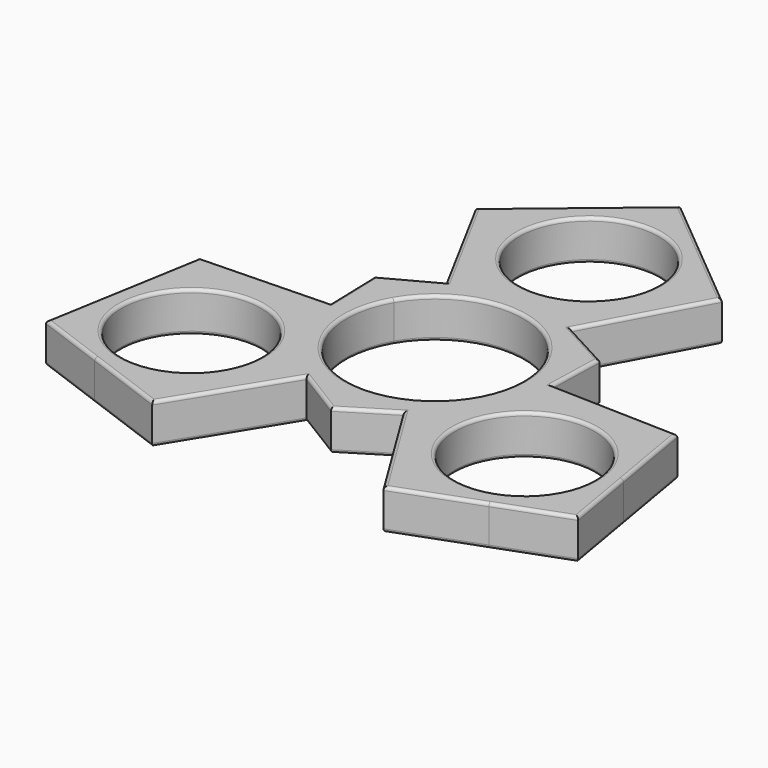
from build123d import *

# Parameters (mm, degrees)
F0_R     = 11.049
F1_DEPTH = 6.35
F2_R     = 0.508


with BuildPart() as f1:
    # F0 (on Top) → F1 (new body)
    with BuildSketch(Plane.XY):
        with BuildLine():
            ThreePointArc((12.0983747456, 6.9850002516), (13.4939837557, 3.6157022004), (13.97, 0))
            ThreePointArc((13.97, 0), (9.8782817384, -9.878281728), (1.47e-08, -13.97))
            ThreePointArc((1.47e-08, -13.97), (3.9531918818, -14.4502659428), (7.6763918152, -15.863122471))
            ThreePointArc((7.6763918152, -15.863122471), (11.438431619, -18.5744390263), (14.2980794165, -22.225))
            ThreePointArc((14.2980794165, -22.225), (14.2980794165, -8.255), (26.3964543073, -1.27))
            ThreePointArc((26.3964543073, -1.27), (21.8051518673, -0.6187528483), (17.5760629508, 1.2836109141))
            ThreePointArc((17.5760629508, 1.2836109141), (14.490893233, 3.8015684858), (12.0983747456, 6.9850002516))
        make_face()
        with BuildLine():
            ThreePointArc((-12.0983749365, 6.984999921), (-1.908e-07, 13.97), (12.0983747456, 6.9850002516))
            ThreePointArc((12.0983747456, 6.9850002516), (10.5377014186, 10.6486976995), (9.8996711356, 14.5795115569))
            ThreePointArc((9.8996711356, 14.5795115569), (10.3667202483, 19.1931918746), (12.0983748909, 23.495))
            ThreePointArc((12.0983748909, 23.495), (0, 16.51), (-12.0983748909, 23.495))
            ThreePointArc((-12.0983748909, 23.495), (-10.3667202483, 19.1931918746), (-9.8996711356, 14.5795115569))
            ThreePointArc((-9.8996711356, 14.5795115569), (-10.5377014717, 10.6486975162), (-12.0983749365, 6.984999921))
        make_face()
        with BuildLine():
            ThreePointArc((9.8996711356, 14.5795115569), (10.5377014186, 10.6486976995), (12.0983747456, 6.9850002516))
            ThreePointArc((12.0983747456, 6.9850002516), (14.490893233, 3.8015684858), (17.5760629508, 1.2836109141))
            Line((17.5760629508, 1.2836109141), (17.835212258, 10.2971645982))
            Line((17.835212258, 10.2971645982), (9.8996711356, 14.5795115569))
        make_face()
        with BuildLine():
            ThreePointArc((-7.6763918152, -15.863122471), (-3.9531918675, -14.4502659392), (1.47e-08, -13.97))
            ThreePointArc((1.47e-08, -13.97), (-12.0983748644, -6.9850000458), (-12.0983749365, 6.984999921))
            ThreePointArc((-12.0983749365, 6.984999921), (-14.4908933653, 3.8015683482), (-17.5760629508, 1.2836109141))
            ThreePointArc((-17.5760629508, 1.2836109141), (-21.8051518673, -0.6187528483), (-26.3964543073, -1.27))
            ThreePointArc((-26.3964543073, -1.27), (-16.5181725742, -5.3617182668), (-12.4264543073, -15.24))
            ThreePointArc((-12.4264543073, -15.24), (-12.9024705141, -18.8557020601), (-14.2980794165, -22.225))
            ThreePointArc((-14.2980794165, -22.225), (-11.438431619, -18.5744390263), (-7.6763918152, -15.863122471))
        make_face()
        with BuildLine():
            ThreePointArc((7.6763918152, -15.863122471), (3.9531918818, -14.4502659428), (1.47e-08, -13.97))
            ThreePointArc((1.47e-08, -13.97), (-3.9531918675, -14.4502659392), (-7.6763918152, -15.863122471))
            Line((-7.6763918152, -15.863122471), (0, -20.5943291964))
            Line((0, -20.5943291964), (7.6763918152, -15.863122471))
        make_face()
        with BuildLine():
            ThreePointArc((-17.5760629508, 1.2836109141), (-14.4908933653, 3.8015683482), (-12.0983749365, 6.984999921))
            ThreePointArc((-12.0983749365, 6.984999921), (-10.5377014717, 10.6486975162), (-9.8996711356, 14.5795115569))
            Line((-9.8996711356, 14.5795115569), (-17.835212258, 10.2971645982))
            Line((-17.835212258, 10.2971645982), (-17.5760629508, 1.2836109141))
        make_face()
        with BuildLine():
            ThreePointArc((12.0983748909, 23.495), (10.3667202483, 19.1931918746), (9.8996711356, 14.5795115569))
            Line((9.8996711356, 14.5795115569), (19.5195828776, 32.405999219))
            Line((19.5195828776, 32.405999219), (8.9389112692, 41.2157703646))
            ThreePointArc((8.9389112692, 41.2157703646), (12.6498515887, 36.4080818807), (13.97, 30.48))
            ThreePointArc((13.97, 30.48), (13.4939837933, 26.8642979399), (12.0983748909, 23.495))
        make_face()
        with BuildLine():
            Line((37.8242099975, 0.7014550338), (17.5760629508, 1.2836109141))
            ThreePointArc((17.5760629508, 1.2836109141), (21.8051518673, -0.6187528483), (26.3964543073, -1.27))
            ThreePointArc((26.3964543073, -1.27), (35.3965642664, -4.555482195), (40.1633598341, -12.8665610989))
            Line((40.1633598341, -12.8665610989), (37.8242099975, 0.7014550338))
        make_face()
        with BuildLine():
            ThreePointArc((14.2980794165, -22.225), (11.438431619, -18.5744390263), (7.6763918152, -15.863122471))
            Line((7.6763918152, -15.863122471), (18.3046271199, -33.1074542528))
            Line((18.3046271199, -33.1074542528), (31.2244487549, -28.3492093436))
            ThreePointArc((31.2244487549, -28.3492093436), (21.6434454741, -28.376582776), (14.2980794165, -22.225))
        make_face()
        with BuildLine():
            Line((-18.3046271199, -33.1074542528), (-7.6763918152, -15.863122471))
            ThreePointArc((-7.6763918152, -15.863122471), (-11.438431619, -18.5744390263), (-14.2980794165, -22.225))
            ThreePointArc((-14.2980794165, -22.225), (-21.6434452704, -28.3765827023), (-31.2244483483, -28.3492094933))
            Line((-31.2244483483, -28.3492094933), (-18.3046271199, -33.1074542528))
        make_face()
        with BuildLine():
            ThreePointArc((-26.3964543073, -1.27), (-21.8051518673, -0.6187528483), (-17.5760629508, 1.2836109141))
            Line((-17.5760629508, 1.2836109141), (-37.8242099975, 0.7014550338))
            Line((-37.8242099975, 0.7014550338), (-40.1633598688, -12.8665612999))
            ThreePointArc((-40.1633598688, -12.8665612999), (-35.3965643445, -4.5554822608), (-26.3964543073, -1.27))
        make_face()
        with BuildLine():
            Line((-19.5195828776, 32.405999219), (-9.8996711356, 14.5795115569))
            ThreePointArc((-9.8996711356, 14.5795115569), (-10.3667202483, 19.1931918746), (-12.0983748909, 23.495))
            ThreePointArc((-12.0983748909, 23.495), (-13.7531188169, 32.9320650087), (-8.9389110683, 41.2157705318))
            Line((-8.9389110683, 41.2157705318), (-19.5195828776, 32.405999219))
        make_face()
        with BuildLine():
            ThreePointArc((-12.0983748909, 23.495), (0, 16.51), (12.0983748909, 23.495))
            ThreePointArc((12.0983748909, 23.495), (13.4939837933, 26.8642979399), (13.97, 30.48))
            ThreePointArc((13.97, 30.48), (12.6498515887, 36.4080818807), (8.9389112692, 41.2157703646))
            ThreePointArc((8.9389112692, 41.2157703646), (1.307e-07, 44.45), (-8.9389110683, 41.2157705318))
            ThreePointArc((-8.9389110683, 41.2157705318), (-13.7531188169, 32.9320650087), (-12.0983748909, 23.495))
        make_face()
        with Locations((0, 30.48)):
            Circle(F0_R, mode=Mode.SUBTRACT)
        with BuildLine():
            ThreePointArc((40.1633598341, -12.8665610989), (35.3965642664, -4.555482195), (26.3964543073, -1.27))
            ThreePointArc((26.3964543073, -1.27), (14.2980794165, -8.255), (14.2980794165, -22.225))
            ThreePointArc((14.2980794165, -22.225), (21.6434454741, -28.376582776), (31.2244487549, -28.3492093436))
            ThreePointArc((31.2244487549, -28.3492093436), (37.8552496723, -23.2310517946), (40.3664543073, -15.24))
            ThreePointArc((40.3664543073, -15.24), (40.3155880844, -14.0489437899), (40.1633598341, -12.8665610989))
        make_face()
        with Locations((26.3964543073, -15.24)):
            Circle(F0_R, mode=Mode.SUBTRACT)
        with BuildLine():
            ThreePointArc((-31.2244483483, -28.3492094933), (-21.6434452704, -28.3765827023), (-14.2980794165, -22.225))
            ThreePointArc((-14.2980794165, -22.225), (-12.9024705141, -18.8557020601), (-12.4264543073, -15.24))
            ThreePointArc((-12.4264543073, -15.24), (-16.5181725742, -5.3617182668), (-26.3964543073, -1.27))
            ThreePointArc((-26.3964543073, -1.27), (-35.3965643445, -4.5554822608), (-40.1633598688, -12.8665612999))
            ThreePointArc((-40.1633598688, -12.8665612999), (-38.4948290567, -22.2250002451), (-31.2244483483, -28.3492094933))
        make_face()
        with Locations((-26.3964543073, -15.24)):
            Circle(F0_R, mode=Mode.SUBTRACT)
        with BuildLine():
            ThreePointArc((-8.9389110683, 41.2157705318), (1.307e-07, 44.45), (8.9389112692, 41.2157703646))
            Line((8.9389112692, 41.2157703646), (0, 48.6585646868))
            Line((0, 48.6585646868), (-8.9389110683, 41.2157705318))
        make_face()
        with BuildLine():
            Line((42.1395531304, -24.3292823434), (40.1633598341, -12.8665610989))
            ThreePointArc((40.1633598341, -12.8665610989), (40.3155880844, -14.0489437899), (40.3664543073, -15.24))
            ThreePointArc((40.3664543073, -15.24), (37.8552496723, -23.2310517946), (31.2244487549, -28.3492093436))
            Line((31.2244487549, -28.3492093436), (42.1395531304, -24.3292823434))
        make_face()
        with BuildLine():
            Line((-42.1395531304, -24.3292823434), (-31.2244483483, -28.3492094933))
            ThreePointArc((-31.2244483483, -28.3492094933), (-38.4948290567, -22.2250002451), (-40.1633598688, -12.8665612999))
            Line((-40.1633598688, -12.8665612999), (-42.1395531304, -24.3292823434))
        make_face()
    extrude(amount=F1_DEPTH)

    # F2
    f2_edges = [f1.edges().sort_by_distance(p)[0] for p in [
        (-13.867442, 12.438338, 0),
        (-17.705638, 5.790388, 0),
        (-27.700136, 0.992533, 0),
        (-39.981882, -11.813914, 0),
        (-30.22209, -28.718368, 0),
        (-12.990509, -24.485288, 0),
        (-3.838196, -18.228726, 0),
        (3.838196, -18.228726, 0),
        (12.990509, -24.485288, 0),
        (30.22209, -28.718368, 0),
        (39.981882, -11.813914, 0),
        (27.700136, 0.992533, 0),
        (17.705638, 5.790388, 0),
        (13.867442, 12.438338, 0),
        (14.709627, 23.492755, 0),
        (9.759791, 40.532282, 0),
        (-9.759791, 40.532282, 0),
        (-14.709627, 23.492755, 0),
        (12.098375, -6.985, 0),
        (-11.049, 30.48, 0),
        (15.347454, -15.24, 0),
        (-37.445454, -15.24, 0),
        (-13.867442, 12.438338, 6.35),
        (-17.705638, 5.790388, 6.35),
        (-27.700136, 0.992533, 6.35),
        (-39.981882, -11.813914, 6.35),
        (-30.22209, -28.718368, 6.35),
        (-12.990509, -24.485288, 6.35),
        (-3.838196, -18.228726, 6.35),
        (3.838196, -18.228726, 6.35),
        (12.990509, -24.485288, 6.35),
        (30.22209, -28.718368, 6.35),
        (39.981882, -11.813914, 6.35),
        (27.700136, 0.992533, 6.35),
        (17.705638, 5.790388, 6.35),
        (13.867442, 12.438338, 6.35),
        (14.709627, 23.492755, 6.35),
        (9.759791, 40.532282, 6.35),
        (-9.759791, 40.532282, 6.35),
        (-14.709627, 23.492755, 6.35),
        (12.098375, -6.985, 6.35),
        (-11.049, 30.48, 6.35),
        (15.347454, -15.24, 6.35),
        (-37.445454, -15.24, 6.35),
    ]]
    fillet(f2_edges, radius=F2_R)


solid = f1.part
